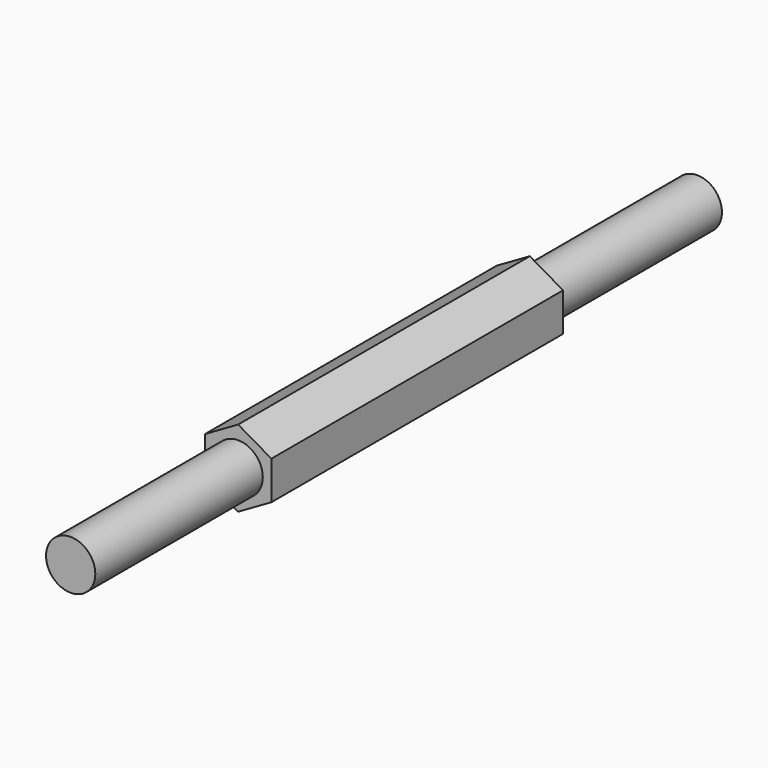
from build123d import *

# Parameters (mm, degrees)
F1_DEPTH = 74
F2_R     = 10
F3_DEPTH = 85


with BuildPart() as f1:
    # F0 (on Front) → F1 (new body)
    with BuildSketch(Plane.XZ):
        Polygon((13.5, -7.794229), (13.5, 7.794229), (0, 15.588457), (-13.5, 7.794229), (-13.5, -7.794229), (0, -15.588457), align=None)
    extrude(amount=F1_DEPTH)

    # F2 (on face) → F3 (join)
    with BuildSketch(Plane.XZ.offset(74)):
        Circle(F2_R)
    extrude(amount=F3_DEPTH)

    # F4: F1 across face


with BuildPart() as f1_1:
    add(f1.part)
    add(f1.part.mirror(Plane(origin=(0, 0, 0), x_dir=(1, 0, 0), z_dir=(0, 1, 0))))


solid = f1_1.part
